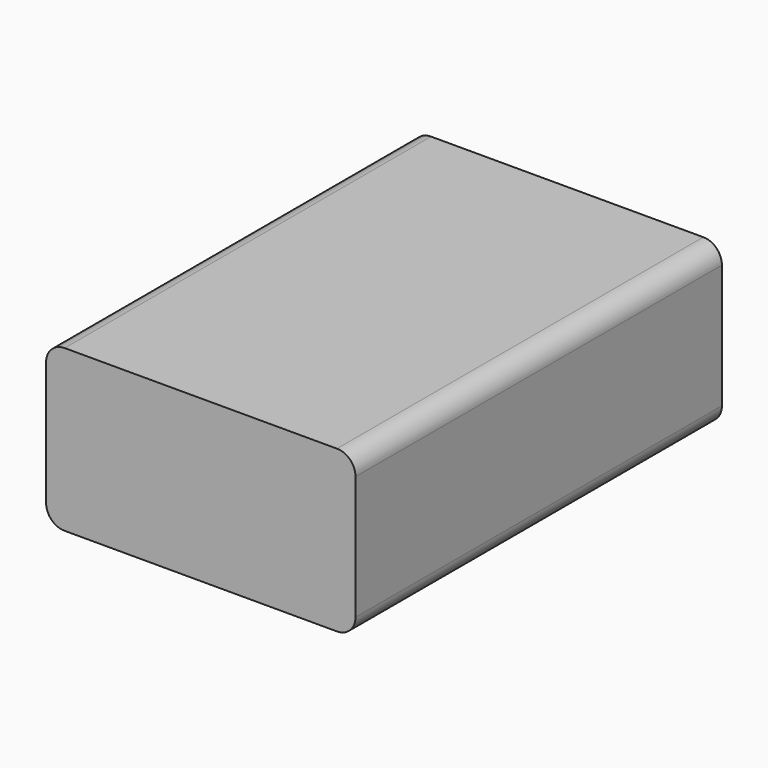
from build123d import *

# Parameters (mm, degrees)
F0_W     = 50
F0_H     = 74
F1_DEPTH = 26
F2_W     = 40
F2_H     = 15
F3_DEPTH = 4.5
F5_R     = 3
F6_DEPTH = 4
F4_W     = 0.5
F4_H     = 2
F7_DEPTH = 0.2


with BuildPart() as f1:
    # F0 (on Top) → F1 (new body)
    with BuildSketch(Plane.XY):
        with Locations((2.1081687883, 0.6221723649)):
            Rectangle(F0_W, F0_H)
    extrude(amount=F1_DEPTH)

    # F2 (on face) → F3 (cut)
    with BuildSketch(Plane(origin=(0, 37.6221723649, 0), x_dir=(-1, 0, 0), z_dir=(0, 1, 0))):
        with Locations((-2.0523197204, 13.3878487907)):
            Rectangle(F2_W, F2_H)
    extrude(amount=-F3_DEPTH, mode=Mode.SUBTRACT)

    # F5
    f5_edges = [f1.edges().sort_by_distance(p)[0] for p in [
        (27.108169, 0.622172, 0),
        (27.108169, 0.622172, 26),
        (-22.891831, 0.622172, 0),
        (-22.891831, 0.622172, 26),
    ]]
    fillet(f5_edges, radius=F5_R)

    # F4 (on face) → F6 (cut)
    with BuildSketch(Plane(origin=(0, 0, 0), x_dir=(1, 0, 0), z_dir=(0, 0, -1))):
        with BuildLine():
            Line((18.1081687883, 20.3778276351), (18.1081687883, 18.8778276351))
            ThreePointArc((18.1081687883, 18.8778276351), (19.16882896, 19.3171674633), (19.6081687883, 20.3778276351))
            ThreePointArc((19.6081687883, 20.3778276351), (18.1081687883, 21.8778276351), (16.6081687883, 20.3778276351))
            Line((16.6081687883, 20.3778276351), (18.1081687883, 20.3778276351))
        make_face()
        with BuildLine():
            ThreePointArc((16.6081687883, 20.3778276351), (17.0475086165, 19.3171674633), (18.1081687883, 18.8778276351))
            Line((18.1081687883, 18.8778276351), (18.1081687883, 20.3778276351))
            Line((18.1081687883, 20.3778276351), (16.6081687883, 20.3778276351))
        make_face()
        with BuildLine():
            Line((-12.8918312117, 20.3778276351), (-11.3918312117, 20.3778276351))
            ThreePointArc((-11.3918312117, 20.3778276351), (-13.9524913835, 21.4384878068), (-12.8918312117, 18.8778276351))
            Line((-12.8918312117, 18.8778276351), (-12.8918312117, 20.3778276351))
        make_face()
        with BuildLine():
            ThreePointArc((-12.8918312117, 18.8778276351), (-11.83117104, 19.3171674633), (-11.3918312117, 20.3778276351))
            Line((-11.3918312117, 20.3778276351), (-12.8918312117, 20.3778276351))
            Line((-12.8918312117, 20.3778276351), (-12.8918312117, 18.8778276351))
        make_face()
        with BuildLine():
            ThreePointArc((18.1081687883, -8.1221723649), (16.6081687883, -9.6221723649), (18.1081687883, -11.1221723649))
            Line((18.1081687883, -11.1221723649), (18.1081687883, -9.6221723649))
            Line((18.1081687883, -9.6221723649), (18.1081687883, -8.1221723649))
        make_face()
        with BuildLine():
            Line((18.1081687883, -9.6221723649), (18.1081687883, -11.1221723649))
            ThreePointArc((18.1081687883, -11.1221723649), (19.16882896, -10.6828325367), (19.6081687883, -9.6221723649))
            ThreePointArc((19.6081687883, -9.6221723649), (19.16882896, -8.5615121932), (18.1081687883, -8.1221723649))
            Line((18.1081687883, -8.1221723649), (18.1081687883, -9.6221723649))
        make_face()
    extrude(amount=-F6_DEPTH, mode=Mode.SUBTRACT)

    # F4 (on face) → F7 (cut)
    with BuildSketch(Plane(origin=(0, 0, 0), x_dir=(1, 0, 0), z_dir=(0, 0, -1))):
        with Locations((-12.6418312117, 7.3778276351)):
            Rectangle(F4_W, F4_H)
    extrude(amount=-F7_DEPTH, mode=Mode.SUBTRACT)


solid = f1.part
